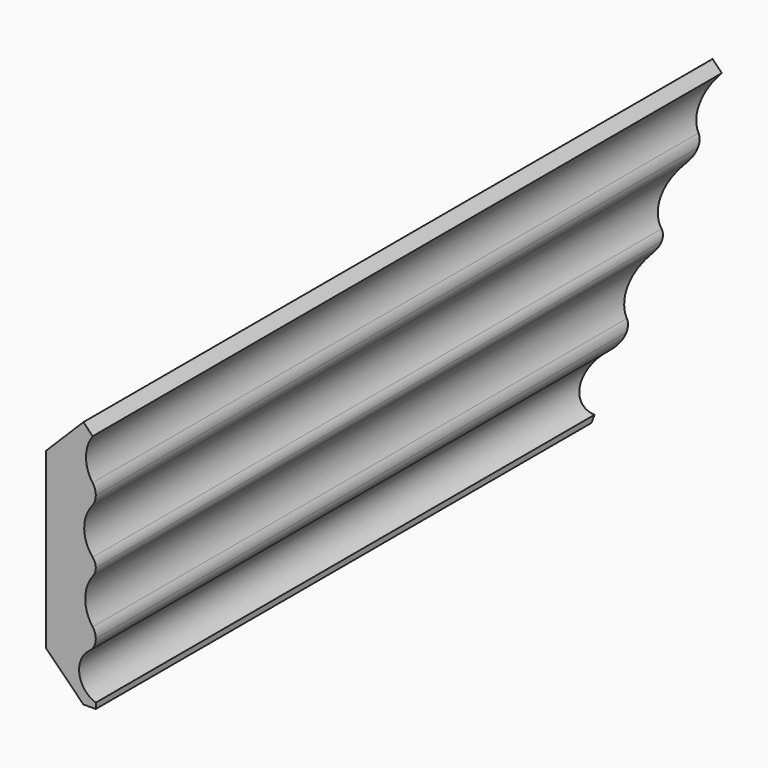
from build123d import *

# Parameters (mm, degrees)
F0_W     = 25.4
F0_H     = 127
F1_DEPTH = 203.2
F2_SIZE  = 19.05
F4_DEPTH = 406.401
F6_DEPTH = 94.293689


with BuildPart() as f1:
    # F0 (on Front) → F1 (new body, symmetric)
    with BuildSketch(Plane.XZ):
        Rectangle(F0_W, F0_H)
    extrude(amount=F1_DEPTH, both=True)

    # F2
    f2_edges = [f1.edges().sort_by_distance(p)[0] for p in [
        (-12.7, 0, 63.5),
        (-12.7, 0, -63.5),
    ]]
    chamfer(f2_edges, length=F2_SIZE)

    # F3 (on face) → F4 (cut, through all)
    with BuildSketch(Plane.XZ.offset(203.2)):
        with BuildLine():
            ThreePointArc((11.060744, 37.774344), (12.279988, 35.370372), (12.7, 32.707811))
            Line((12.7, 32.707811), (12.7, 60.574245))
            ThreePointArc((12.7, 60.574245), (7.734522, 49.472371), (11.060744, 37.774344))
        make_face()
        with BuildLine():
            ThreePointArc((12.7, 32.707811), (12.205083, 29.823985), (10.776971, 27.270186))
            ThreePointArc((10.776971, 27.270186), (6.784667, 15.709988), (11.117322, 4.272996))
            ThreePointArc((11.117322, 4.272996), (12.291618, 2.278342), (12.7, 0))
            Line((12.7, 0), (12.7, 32.707811))
        make_face()
        with BuildLine():
            Line((12.7, -31.853333), (12.7, 0))
            ThreePointArc((12.7, 0), (12.343759, -2.132292), (11.313729, -4.03298))
            ThreePointArc((11.313729, -4.03298), (7.310588, -15.504261), (11.098474, -27.048409))
            ThreePointArc((11.098474, -27.048409), (12.289076, -29.320934), (12.7, -31.853333))
        make_face()
        with BuildLine():
            Line((12.7, -60.624816), (12.7, -31.853333))
            ThreePointArc((12.7, -31.853333), (11.827932, -35.487574), (9.401646, -38.330346))
            ThreePointArc((9.401646, -38.330346), (4.3012, -50.476153), (12.7, -60.624816))
        make_face()
    extrude(amount=-F4_DEPTH, mode=Mode.SUBTRACT)

    # F5 (on face) → F6 (cut, through all)
    with BuildSketch(Plane(origin=(-28.575, 0, 28.575), x_dir=(0, -1, 0), z_dir=(-0.707107, 0, 0.707107))):
        Polygon((203.2, 53.881537), (-203.2, 53.881537), (-198.709872, 49.391409), (203.2, 49.391409), align=None)
        Polygon((-198.709872, 49.391409), (-203.2, 53.881537), (-203.2, 49.391409), align=None)
        Polygon((203.2, 53.881537), (-203.2, 53.881537), (-198.709872, 49.391409), (203.2, 49.391409), align=None)
        Polygon((-198.709872, 49.391409), (-203.2, 49.391409), (-203.2, -78.467675), (-70.850788, -78.467675), align=None)
    extrude(amount=-F6_DEPTH, mode=Mode.SUBTRACT)


solid = f1.part
